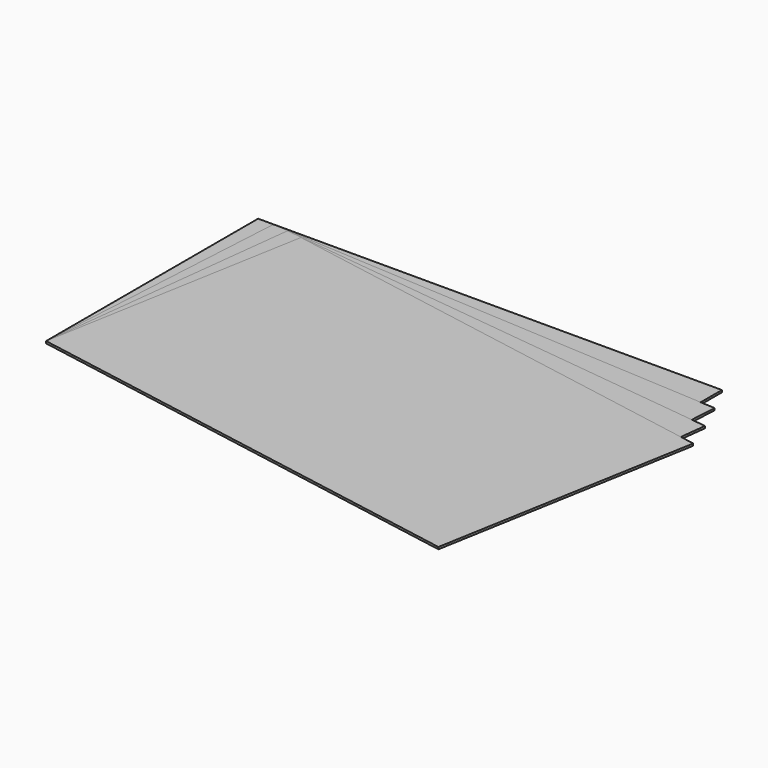
from build123d import *

# Parameters (mm, degrees)
F0_W     = 88.9
F0_H     = 50.8
F1_DEPTH = 0.4
F2_COUNT = 4
F2_ANGLE = 10


with BuildPart() as f1:
    # F0 (on Top) → F1 (new body)
    with BuildSketch(Plane.XY):
        Rectangle(F0_W, F0_H)
    extrude(amount=F1_DEPTH)


with BuildPart() as f2_1:
    # F2: instance of F1
    add(f1.part.rotate(Axis((-44.45, -25.4, 0.2), (0, 0, -1)), 1 * F2_ANGLE / (F2_COUNT - 1)))


with BuildPart() as f2_2:
    # F2: instance of F1
    add(f1.part.rotate(Axis((-44.45, -25.4, 0.2), (0, 0, -1)), 2 * F2_ANGLE / (F2_COUNT - 1)))


with BuildPart() as f2_3:
    # F2: instance of F1
    add(f1.part.rotate(Axis((-44.45, -25.4, 0.2), (0, 0, -1)), 3 * F2_ANGLE / (F2_COUNT - 1)))


solid = Compound([f1.part, f2_1.part, f2_2.part, f2_3.part])
